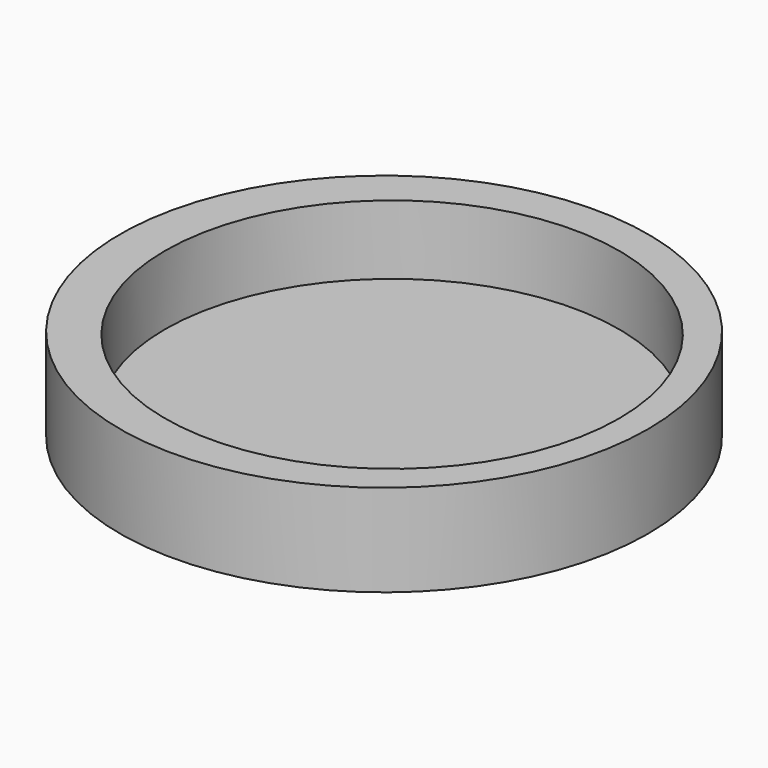
from build123d import *

# Parameters (mm, degrees)
F0_R     = 72.785755
F0_R_2   = 56.566721
F1_DEPTH = 25.4
F2_R     = 62.611
F3_DEPTH = 19.05


with BuildPart() as f1:
    # F0 (on Top) → F1 (new body)
    with BuildSketch(Plane.XY):
        Circle(F0_R)
        Circle(F0_R_2, mode=Mode.SUBTRACT)
        Circle(F0_R_2)
    extrude(amount=F1_DEPTH)

    # F2 (on face) → F3 (cut)
    with BuildSketch(Plane.XY.offset(25.4)):
        with Locations((2.2056, 0)):
            Circle(F2_R)
    extrude(amount=-F3_DEPTH, mode=Mode.SUBTRACT)


solid = f1.part
